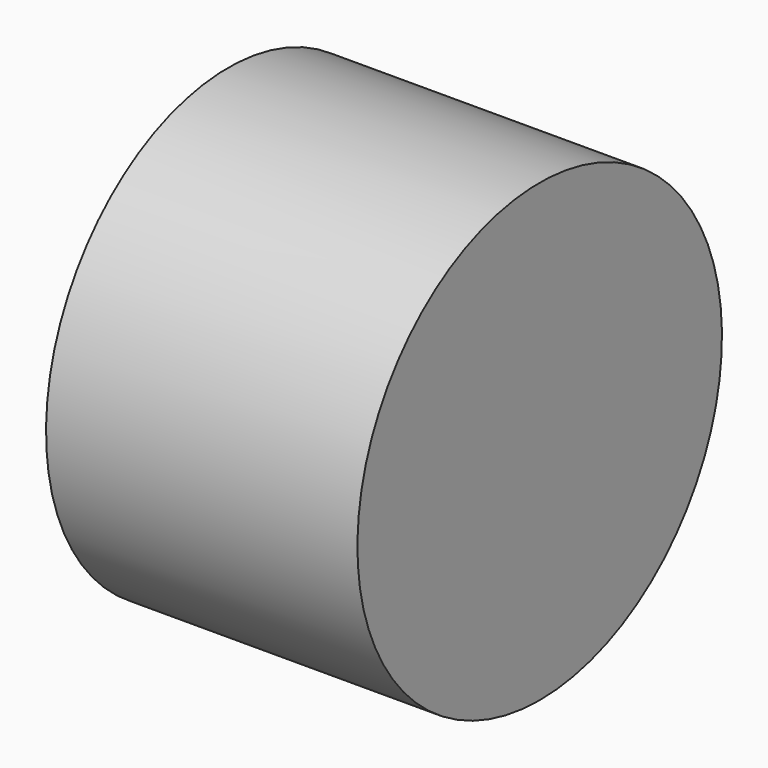
from build123d import *

# Parameters (mm, degrees)
CYLINDER060_R     = 1.25
CYLINDER060_DEPTH = 5
CYLINDER039_R     = 3
CYLINDER039_DEPTH = 4.1


with BuildPart() as b_w007:
    # Cylinder060 → Cylinder060 (new body)
    with BuildSketch(Plane(origin=(2, 16, 7), x_dir=(0, 0, 1), z_dir=(-1, 0, 0))):
        Circle(CYLINDER060_R)
    extrude(amount=CYLINDER060_DEPTH)


with BuildPart() as cut024:
    # Cylinder039 → Cylinder039 (new body)
    with BuildSketch(Plane(origin=(-1, 16, 7), x_dir=(0, 0, -1), z_dir=(1, 0, 0))):
        Circle(CYLINDER039_R)
    extrude(amount=CYLINDER039_DEPTH)

    # Cut024: cut B_W007
    add(b_w007.part, mode=Mode.SUBTRACT)


solid = cut024.part
